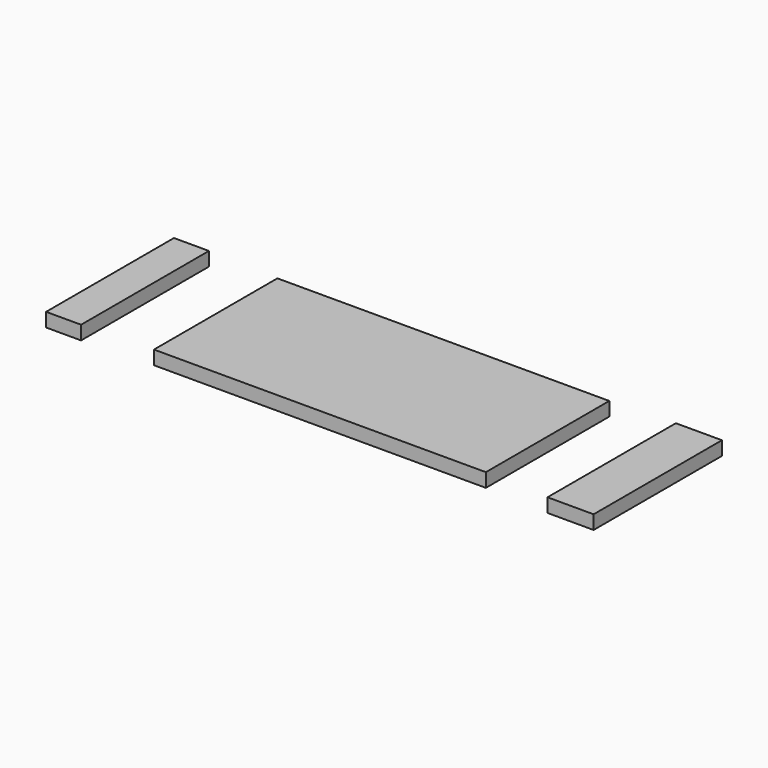
from build123d import *

# Parameters (mm, degrees)
F1_DEPTH = 6.35


with BuildPart() as f1:
    # F0 (on Top) → F1 (new body)
    with BuildSketch(Plane.XY):
        Polygon((-76.202936, 0.319925), (-76.202936, -35.418112), (76.202936, -35.418112), (76.202936, 0), (0, 0), align=None)
        Polygon((-108.662523, -36.698528), (-108.662523, 0.456201), (-108.662523, 36.698528), (-124.727227, 36.698528), (-124.727227, -36.698528), align=None)
        Polygon((105.649054, 36.827162), (105.649054, 0), (105.649054, -36.827162), (126.808733, -36.827162), (126.808733, 36.827162), align=None)
        Polygon((-76.202936, 35.418112), (-76.202936, 0.319925), (0, 0), (76.202936, 0), (76.202936, 35.418112), align=None)
    extrude(amount=F1_DEPTH)


solid = f1.part
